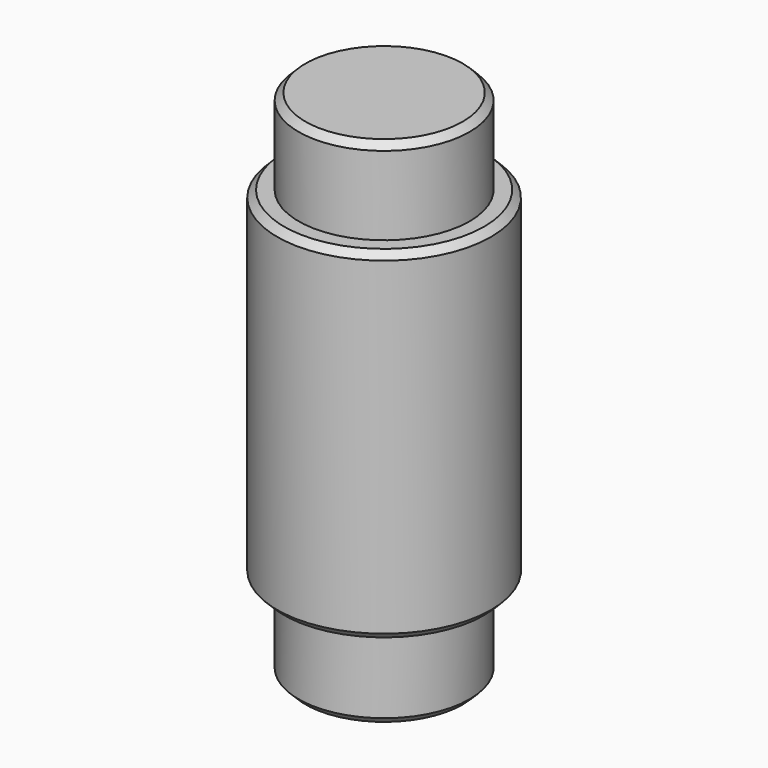
from build123d import *

# Parameters (mm, degrees)
F0_R     = 3.96875
F1_DEPTH = 12.7
F2_R     = 3.175
F3_DEPTH = 3.175
F4_R     = 3.175
F5_DEPTH = 3.175
F6_SIZE  = 0.254


with BuildPart() as f1:
    # F0 (on Top) → F1 (new body)
    with BuildSketch(Plane.XY):
        Circle(F0_R)
    extrude(amount=F1_DEPTH)

    # F2 (on Top) → F3 (join)
    with BuildSketch(Plane.XY):
        Circle(F2_R)
    extrude(amount=-F3_DEPTH)

    # F4 (on face) → F5 (join)
    with BuildSketch(Plane.XY.offset(12.7)):
        Circle(F4_R)
    extrude(amount=F5_DEPTH)

    # F6
    f6_edges = [f1.edges().sort_by_distance(p)[0] for p in [
        (-3.175, 0, 15.875),
        (-3.96875, 0, 12.7),
        (-3.96875, 0, 0),
        (-3.175, 0, -3.175),
    ]]
    chamfer(f6_edges, length=F6_SIZE)


solid = f1.part
